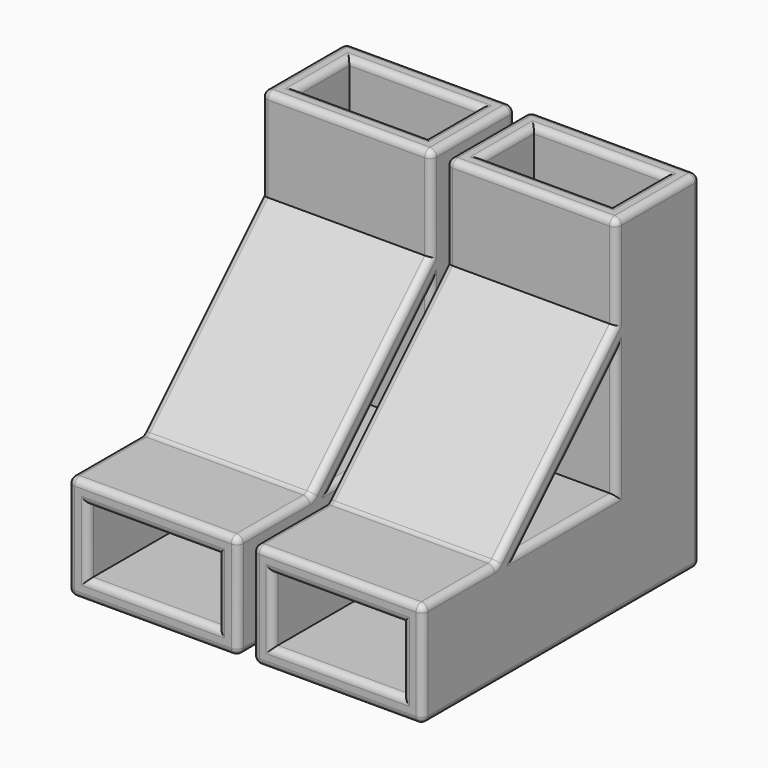
from build123d import *

# Parameters (mm, degrees)
F0_W     = 25.5
F0_H     = 15.75
F0_W_2   = 19.5
F0_H_2   = 9.75
F1_DEPTH = 52
F2_W     = 25.5
F2_H     = 15.75
F2_W_2   = 19.5
F2_H_2   = 9.75
F3_DEPTH = 36.25
F4_DEPTH = 3
F6_DEPTH = 25.5
F7_R     = 1


with BuildPart() as f1:
    # F0 (on Top) → F1 (new body)
    with BuildSketch(Plane.XY):
        Rectangle(F0_W, F0_H)
        Rectangle(F0_W_2, F0_H_2, mode=Mode.SUBTRACT)
    extrude(amount=F1_DEPTH)

    # F2 (on face) → F3 (join)
    with BuildSketch(Plane.XZ.offset(7.875)):
        with Locations((0, 7.875)):
            Rectangle(F2_W, F2_H)
        with Locations((0, 7.875)):
            Rectangle(F2_W_2, F2_H_2, mode=Mode.SUBTRACT)
    extrude(amount=F3_DEPTH)

    # F0 (on Top) → F4 (join)
    with BuildSketch(Plane.XY):
        Rectangle(F0_W_2, F0_H_2)
    extrude(amount=F4_DEPTH)

    # F5 (on face) → F6 (join)
    with BuildSketch(Plane.YZ.offset(12.75)):
        Polygon((-26, 15.75), (-7.875, 33.875), (-7.875, 38.1176406871), (-30.2426406871, 15.75), align=None)
    extrude(amount=-F6_DEPTH)

    # F7
    f7_edges = [f1.edges().sort_by_distance(p)[0] for p in [
        (12.75, -7.875, 24.8125),
        (12.75, -16.9375, 24.8125),
        (12.75, -16.9375, 15.75),
        (12.75, -7.875, 45.05882),
        (12.75, 0, 52),
        (12.75, 7.875, 26),
        (12.75, -18.125, 0),
        (12.75, -44.125, 7.875),
        (12.75, -37.18382, 15.75),
        (12.75, -19.05882, 26.93382),
        (0, 7.875, 0),
        (-12.75, -18.125, 0),
        (0, -44.125, 0),
        (-12.75, 7.875, 26),
        (-12.75, 0, 52),
        (-12.75, -7.875, 45.05882),
        (-12.75, -19.05882, 26.93382),
        (-12.75, -37.18382, 15.75),
        (-12.75, -44.125, 7.875),
        (-12.75, -7.875, 24.8125),
        (-12.75, -16.9375, 15.75),
        (-12.75, -16.9375, 24.8125),
        (0, 7.875, 52),
        (0, -7.875, 52),
        (-9.75, 0, 52),
        (0, 4.875, 52),
        (9.75, 0, 52),
        (0, -4.875, 52),
        (0, -30.242641, 15.75),
        (0, -44.125, 15.75),
        (0, -44.125, 12.75),
        (9.75, -44.125, 7.875),
        (0, -44.125, 3),
        (-9.75, -44.125, 7.875),
    ]]
    fillet(f7_edges, radius=F7_R)


with BuildPart() as f8_1:
    # F8: copy of F1
    add(f1.part.moved(Location((27.7, 0, 0))))


solid = Compound([f1.part, f8_1.part])
